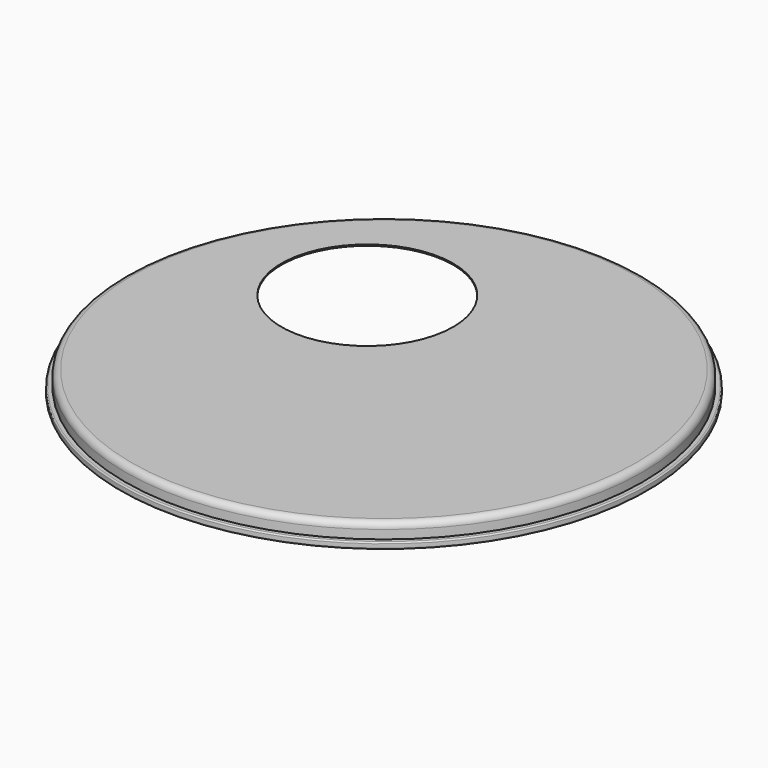
from build123d import *

# Parameters (mm, degrees)
F2_R     = 67.791945
F3_DEPTH = 16.846949


with BuildPart() as f1:
    # F0 (on Front) → F1 (revolve)
    with BuildSketch(Plane.XZ):
        with BuildLine():
            Line((-199.2, 0), (0, 0))
            Line((0, 0), (0, 1))
            Line((0, 1), (-199.2, 1))
            ThreePointArc((-199.2, 1), (-202.735534, -0.464466), (-204.2, -4))
            Line((-204.2, -4), (-204.2, -10.845949))
            Line((-204.2, -10.845949), (-207.2, -10.845949))
            ThreePointArc((-207.2, -10.845949), (-207.907107, -11.138842), (-208.2, -11.845949))
            Line((-208.2, -11.845949), (-208.2, -14.845949))
            ThreePointArc((-208.2, -14.845949), (-207.907107, -15.553056), (-207.2, -15.845949))
            Line((-207.2, -15.845949), (-204.2, -15.845949))
            ThreePointArc((-204.2, -15.845949), (-203.492893, -15.553056), (-203.2, -14.845949))
            Line((-203.2, -14.845949), (-203.2, -10.845949))
            Line((-203.2, -10.845949), (-203.2, -4))
            ThreePointArc((-203.2, -4), (-202.028427, -1.171573), (-199.2, 0))
        make_face()
    revolve(axis=Axis((0, 0, 0.5), (0, 0, -1)))

    # F2 (on face) → F3 (cut, through all)
    with BuildSketch(Plane.XY.offset(1)):
        with Locations((-69.72, 70.769995)):
            Circle(F2_R)
    extrude(amount=-F3_DEPTH, mode=Mode.SUBTRACT)


solid = f1.part
